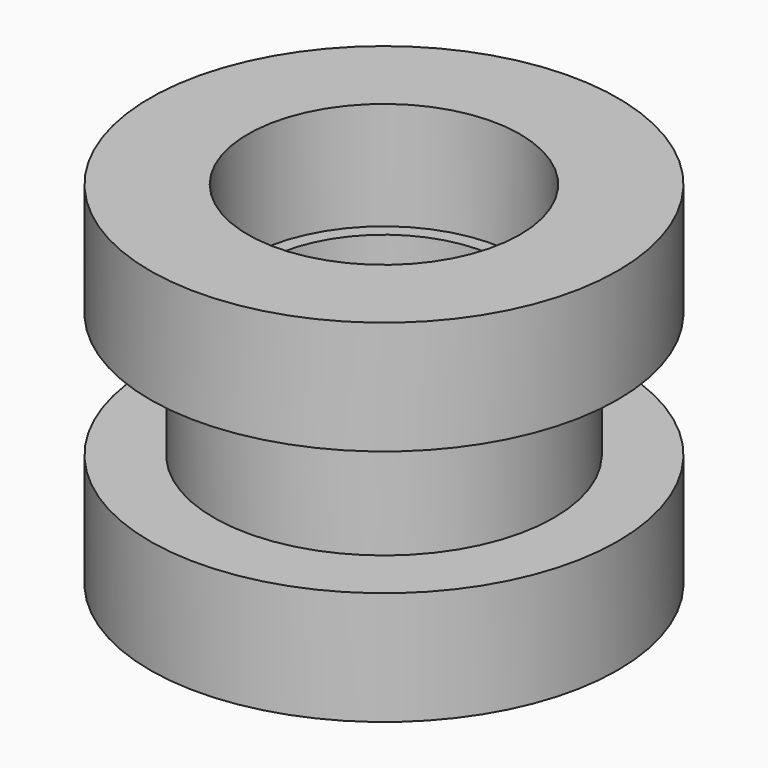
from build123d import *

# Parameters (mm, degrees)
F0_R     = 4.125
F0_R_2   = 3
F1_DEPTH = 2
F0_R_3   = 2.15
F2_DEPTH = 6.2
F3_R     = 4.125
F3_R_2   = 3
F4_DEPTH = 2
F3_R_3   = 2.4
F3_R_4   = 2.15
F5_DEPTH = 1.9


with BuildPart() as f1:
    # F0 (on Top) → F1 (new body)
    with BuildSketch(Plane.XY):
        Circle(F0_R)
        Circle(F0_R_2, mode=Mode.SUBTRACT)
    extrude(amount=F1_DEPTH)

    # F0 (on Top) → F2 (join)
    with BuildSketch(Plane.XY):
        Circle(F0_R_2)
        Circle(F0_R_3, mode=Mode.SUBTRACT)
    extrude(amount=F2_DEPTH)

    # F3 (on face) → F4 (join)
    with BuildSketch(Plane.XY.offset(6.2)):
        Circle(F3_R)
        Circle(F3_R_2, mode=Mode.SUBTRACT)
    extrude(amount=-F4_DEPTH)

    # F3 (on face) → F5 (cut)
    with BuildSketch(Plane.XY.offset(6.2)):
        Circle(F3_R_3)
        Circle(F3_R_4, mode=Mode.SUBTRACT)
        Circle(F3_R_4)
    extrude(amount=-F5_DEPTH, mode=Mode.SUBTRACT)


solid = f1.part
